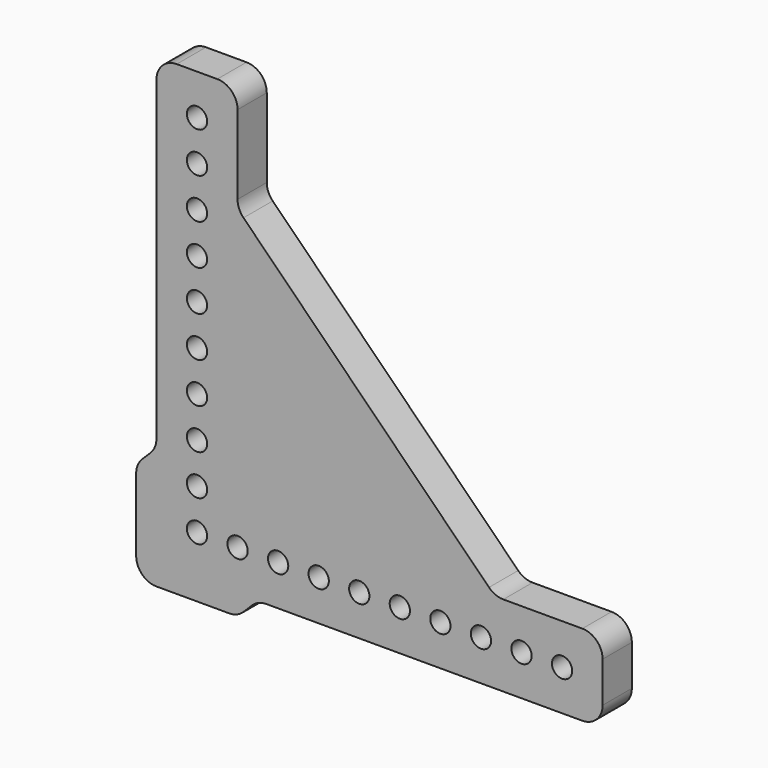
from build123d import *

# Parameters (mm, degrees)
F0_R     = 2.5
F1_DEPTH = 9


with BuildPart() as f1:
    # F0 (on Front) → F1 (new body)
    with BuildSketch(Plane.XZ):
        with BuildLine():
            ThreePointArc((5, 110), (1.464466, 108.535534), (0, 105))
            Line((0, 105), (0, 27.071068))
            ThreePointArc((0, 27.071068), (-0.380602, 25.157651), (-1.464466, 23.535534))
            Line((-1.464466, 23.535534), (-3.535534, 21.464466))
            ThreePointArc((-3.535534, 21.464466), (-4.619398, 19.842349), (-5, 17.928932))
            Line((-5, 17.928932), (-5, 0))
            ThreePointArc((-5, 0), (-3.535534, -3.535534), (0, -5))
            Line((0, -5), (17.928932, -5))
            ThreePointArc((17.928932, -5), (19.842349, -4.619398), (21.464466, -3.535534))
            Line((21.464466, -3.535534), (23.535534, -1.464466))
            ThreePointArc((23.535534, -1.464466), (25.157651, -0.380602), (27.071068, 0))
            Line((27.071068, 0), (105, 0))
            ThreePointArc((105, 0), (108.535534, 1.464466), (110, 5))
            Line((110, 5), (110, 15))
            ThreePointArc((110, 15), (108.535534, 18.535534), (105, 20))
            Line((105, 20), (85.524071, 20))
            ThreePointArc((85.524071, 20), (83.610654, 20.380602), (81.988537, 21.464466))
            Line((81.988537, 21.464466), (21.464466, 81.988537))
            ThreePointArc((21.464466, 81.988537), (20.380602, 83.610654), (20, 85.524071))
            Line((20, 85.524071), (20, 105))
            ThreePointArc((20, 105), (18.535534, 108.535534), (15, 110))
            Line((15, 110), (5, 110))
        make_face()
        with Locations((10, 10)):
            Circle(F0_R, mode=Mode.SUBTRACT)
        with Locations((20, 10)):
            Circle(F0_R, mode=Mode.SUBTRACT)
        with Locations((10, 20)):
            Circle(F0_R, mode=Mode.SUBTRACT)
        with Locations((30, 10)):
            Circle(F0_R, mode=Mode.SUBTRACT)
        with Locations((40, 10)):
            Circle(F0_R, mode=Mode.SUBTRACT)
        with Locations((50, 10)):
            Circle(F0_R, mode=Mode.SUBTRACT)
        with Locations((10, 30)):
            Circle(F0_R, mode=Mode.SUBTRACT)
        with Locations((10, 40)):
            Circle(F0_R, mode=Mode.SUBTRACT)
        with Locations((10, 50)):
            Circle(F0_R, mode=Mode.SUBTRACT)
        with Locations((60, 10)):
            Circle(F0_R, mode=Mode.SUBTRACT)
        with Locations((70, 10)):
            Circle(F0_R, mode=Mode.SUBTRACT)
        with Locations((80, 10)):
            Circle(F0_R, mode=Mode.SUBTRACT)
        with Locations((90, 10)):
            Circle(F0_R, mode=Mode.SUBTRACT)
        with Locations((100, 10)):
            Circle(F0_R, mode=Mode.SUBTRACT)
        with Locations((10, 60)):
            Circle(F0_R, mode=Mode.SUBTRACT)
        with Locations((10, 70)):
            Circle(F0_R, mode=Mode.SUBTRACT)
        with Locations((10, 80)):
            Circle(F0_R, mode=Mode.SUBTRACT)
        with Locations((10, 90)):
            Circle(F0_R, mode=Mode.SUBTRACT)
        with Locations((10, 100)):
            Circle(F0_R, mode=Mode.SUBTRACT)
    extrude(amount=F1_DEPTH)


solid = f1.part
